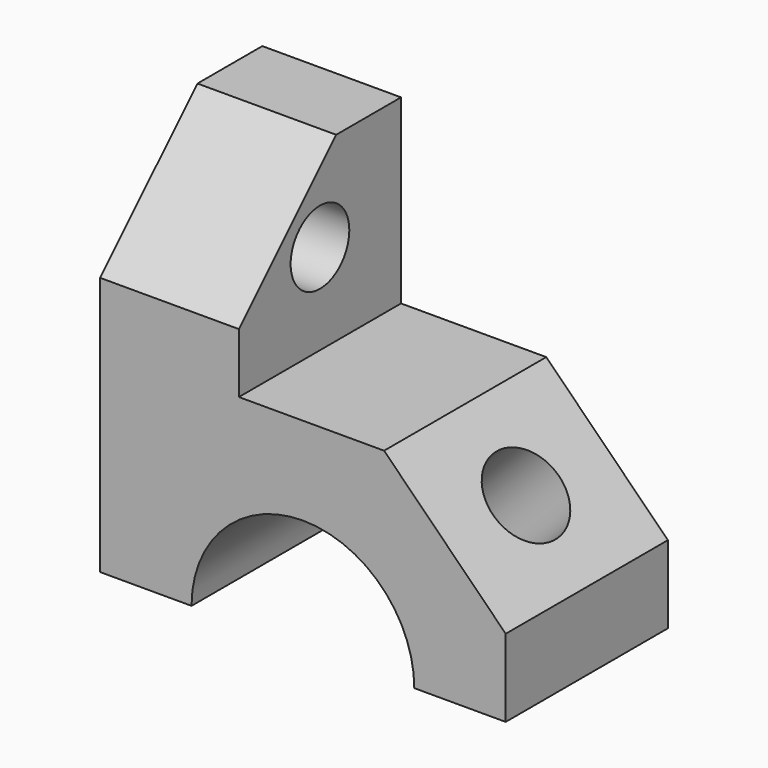
from build123d import *

# Parameters (mm, degrees)
F0_W     = 34.2265013605
F0_H     = 44.7577312589
F1_DEPTH = 25
F2_SIZE  = 30
F3_SIZE  = 30
F4_R     = 9.0461228016
F5_DEPTH = 34.2275013605
F6_R     = 10.2345227576
F7_DEPTH = 84.2827808433


with BuildPart() as f1:
    # F0 (on Front) → F1 (new body, symmetric)
    with BuildSketch(Plane.XZ):
        with Locations((-32.9100964591, 46.9517372549)):
            Rectangle(F0_W, F0_H)
        with BuildLine():
            Line((-15.7968457788, 24.5728716254), (-50.0233471394, 24.5728716254))
            Line((-50.0233471394, 24.5728716254), (-50.0233471394, -24.5728716254))
            Line((-50.0233471394, -24.5728716254), (-27.4733056784, -24.5728716254))
            ThreePointArc((-27.4733056784, -24.5728716254), (0, 2.900434053), (27.4733056784, -24.5728716254))
            Line((27.4733056784, -24.5728716254), (50.0233471394, -24.5728716254))
            Line((50.0233471394, -24.5728716254), (50.0233471394, 24.5728716254))
            Line((50.0233471394, 24.5728716254), (-15.7968457788, 24.5728716254))
        make_face()
    extrude(amount=F1_DEPTH, both=True)

    # F2
    f2_edges = [f1.edges().sort_by_distance(p)[0] for p in [
        (-32.910096, -25, 69.330603),
    ]]
    chamfer(f2_edges, length=F2_SIZE)

    # F3
    f3_edges = [f1.edges().sort_by_distance(p)[0] for p in [
        (50.023347, 0, 24.572872),
    ]]
    chamfer(f3_edges, length=F3_SIZE)

    # F4 (on face) → F5 (cut, through all)
    with BuildSketch(Plane.YZ.offset(-15.7968457788)):
        with Locations((0, 46.9517372549)):
            Circle(F4_R)
    extrude(amount=-F5_DEPTH, mode=Mode.SUBTRACT)

    # F6 (on face) → F7 (cut, through all)
    with BuildSketch(Plane(origin=(22.2981093824, 0, 22.2981093824), x_dir=(0, 1, 0), z_dir=(0.7071067812, 0, 0.7071067812))):
        with Locations((0, -17.9962038203)):
            Circle(F6_R)
    extrude(amount=-F7_DEPTH, mode=Mode.SUBTRACT)


solid = f1.part
